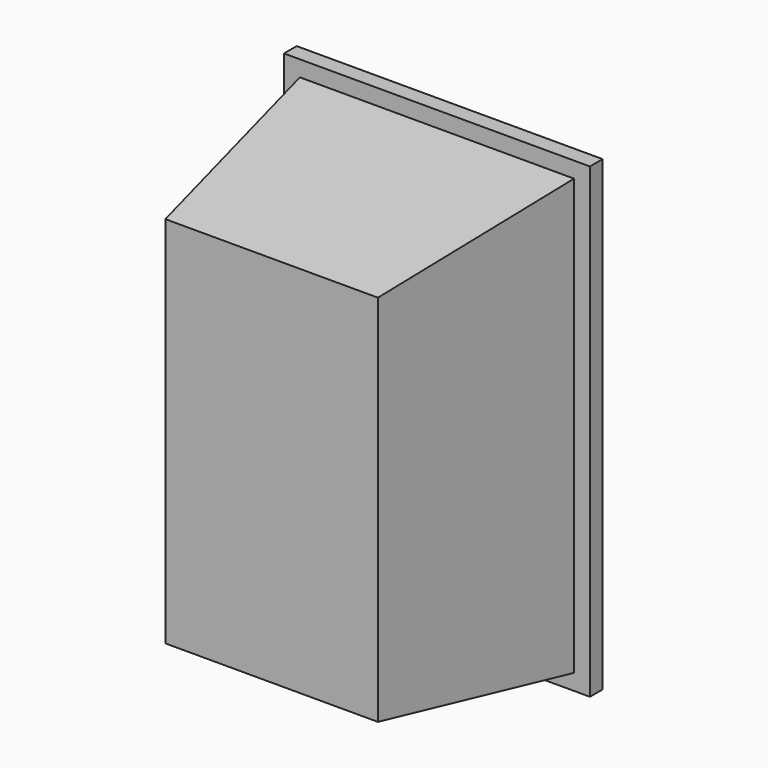
from build123d import *

# Parameters (mm, degrees)
F1_DEPTH = 746.125
F3_DEPTH = 488.951


with BuildPart() as f1:
    # F0 (on Top) → F1 (new body)
    with BuildSketch(Plane.XY):
        Polygon((366.779292, 60.914483), (-71.370708, 60.914483), (-22.158208, -269.285517), (317.566792, -269.285517), align=None)
        Polygon((-96.770708, 60.914483), (-71.370708, 60.914483), (366.779292, 60.914483), (392.179292, 60.914483), (392.179292, 86.314483), (-96.770708, 86.314483), align=None)
    extrude(amount=F1_DEPTH)

    # F2 (on face) → F3 (cut, through all)
    with BuildSketch(Plane.YZ.offset(392.179292)):
        Polygon((60.914483, 720.725), (60.914483, 746.125), (-269.285517, 746.125), (-269.285517, 671.4998), align=None)
        Polygon((-269.285517, 74.6252), (-269.285517, 0), (60.914483, 0), (60.914483, 25.4), align=None)
    extrude(amount=-F3_DEPTH, mode=Mode.SUBTRACT)


solid = f1.part
